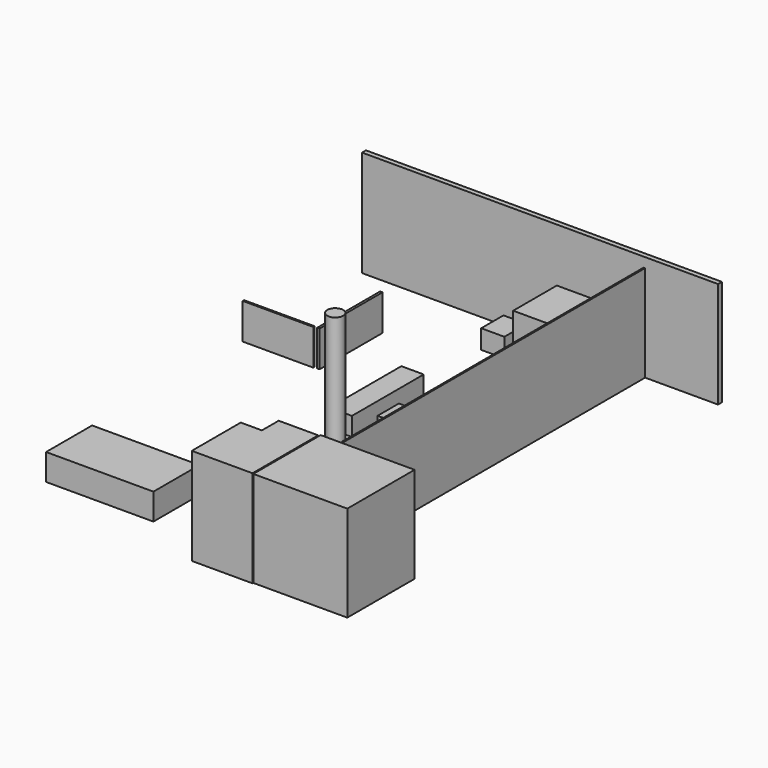
from build123d import *

# Parameters (mm, degrees)
F1_DEPTH  = 68.77318
F2_W      = 66.673864
F2_H      = 59.678898
F3_DEPTH  = 68.10231
F4_W      = 76.154269
F4_H      = 40.798098
F5_DEPTH  = 18.71756
F6_W      = 15.885625
F6_H      = 63.718282
F7_DEPTH  = 13.15756
F8_W      = 18.40895
F8_H      = 18.904217
F9_DEPTH  = 18.06381
F10_W     = 43.351732
F10_H     = 38.688205
F11_DEPTH = 40.41022
F12_W     = 16.457217
F12_H     = 19.763306
F13_DEPTH = 13.52968
F14_W     = 66.45219
F14_H     = 14.955505
F15_DEPTH = 14.05186
F16_W     = 25.491005
F16_H     = 22.336919
F17_DEPTH = 18.02762
F18_W     = 50.191917
F18_H     = 1.185694
F19_DEPTH = 25.4
F20_W     = 1.693874
F20_H     = 55.824861
F21_DEPTH = 25.4
F22_W     = 252.562791
F22_H     = 3.443681
F23_DEPTH = 75.27987
F25_W     = 1.032367
F25_H     = 268.537067
F26_DEPTH = 68.44399
F27_R     = 5.635424
F28_DEPTH = 84.84251


with BuildPart() as f1:
    # F0 (on Top) → F1 (new body)
    with BuildSketch(Plane.XY):
        Polygon((43.065939, -217.374682), (43.065939, -214.579239), (43.065939, -159.084097), (15.019242, -159.084097), (15.019242, -173.939615), (0, -173.939615), (0, -217.374682), align=None)
    extrude(amount=F1_DEPTH)


with BuildPart() as f3:
    # F2 (on Top) → F3 (new body)
    with BuildSketch(Plane.XY):
        with Locations((76.472385, -186.866887)):
            Rectangle(F2_W, F2_H)
    extrude(amount=F3_DEPTH)


with BuildPart() as f5:
    # F4 (on Top) → F5 (new body)
    with BuildSketch(Plane.XY):
        with Locations((-84.136653, -173.41961)):
            Rectangle(F4_W, F4_H)
    extrude(amount=F5_DEPTH)


with BuildPart() as f7:
    # F6 (on Top) → F7 (new body)
    with BuildSketch(Plane.XY):
        with Locations((-31.587196, -13.958752)):
            Rectangle(F6_W, F6_H)
    extrude(amount=F7_DEPTH)


with BuildPart() as f9:
    # F8 (on Top) → F9 (new body)
    with BuildSketch(Plane.XY):
        with Locations((2.47772, -34.730367)):
            Rectangle(F8_W, F8_H)
    extrude(amount=F9_DEPTH)


with BuildPart() as f11:
    # F10 (on Top) → F11 (new body)
    with BuildSketch(Plane.XY):
        with Locations((21.675866, 87.022063)):
            Rectangle(F10_W, F10_H)
    extrude(amount=F11_DEPTH)


with BuildPart() as f13:
    # F12 (on Top) → F13 (new body)
    with BuildSketch(Plane.XY):
        with Locations((-24.731489, 90.393826)):
            Rectangle(F12_W, F12_H)
    extrude(amount=F13_DEPTH)


with BuildPart() as f15:
    # F14 (on Top) → F15 (new body)
    with BuildSketch(Plane.XY):
        with Locations((-33.226095, 132.977598)):
            Rectangle(F14_W, F14_H)
    extrude(amount=F15_DEPTH)


with BuildPart() as f17:
    # F16 (on Top) → F17 (new body)
    with BuildSketch(Plane.XY):
        with Locations((28.0079, 11.168459)):
            Rectangle(F16_W, F16_H)
    extrude(amount=F17_DEPTH)


with BuildPart() as f19:
    # F18 (on Top) → F19 (new body)
    with BuildSketch(Plane.XY):
        with Locations((-117.300849, 6.352884)):
            Rectangle(F18_W, F18_H)
    extrude(amount=F19_DEPTH)


with BuildPart() as f21:
    # F20 (on Top) → F21 (new body)
    with BuildSketch(Plane.XY):
        with Locations((-89.188963, 34.349404)):
            Rectangle(F20_W, F20_H)
    extrude(amount=F21_DEPTH)


with BuildPart() as f23:
    # F22 (on Top) → F23 (new body)
    with BuildSketch(Plane.XY):
        with Locations((-15.778958, 112.948957)):
            Rectangle(F22_W, F22_H)
    extrude(amount=F23_DEPTH)

    # F25 (on Top) → F26 (join)
    with BuildSketch(Plane.XY):
        with Locations((58.256366, -21.975432)):
            Rectangle(F25_W, F25_H)
    extrude(amount=F26_DEPTH)


with BuildPart() as f28:
    # F27 (on Top) → F28 (new body)
    with BuildSketch(Plane.XY):
        with Locations((-22.06143, -62.55731)):
            Circle(F27_R)
    extrude(amount=F28_DEPTH)


solid = Compound([f1.part, f3.part, f5.part, f7.part, f9.part, f11.part, f13.part, f15.part, f17.part, f19.part, f21.part, f23.part, f28.part])
